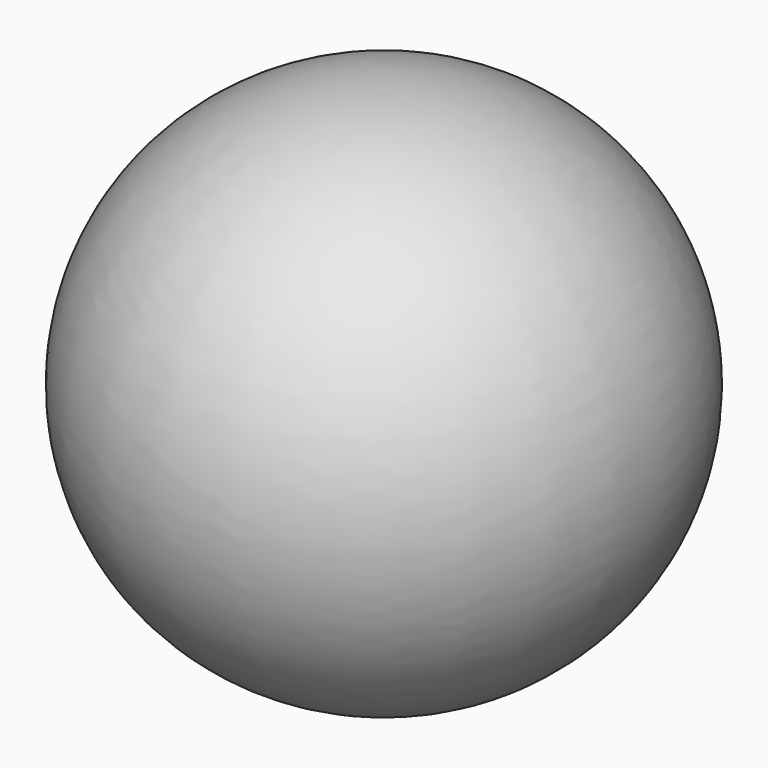
from build123d import *

# Parameters (mm, degrees)
F2_R     = 12.434737
F3_DEPTH = 25.4


with BuildPart() as f1:
    # F0 (on Front) → F1 (revolve)
    with BuildSketch(Plane.XZ):
        with BuildLine():
            ThreePointArc((0, 0), (19.442989, 18.971473), (0, 37.942946))
            Line((0, 37.942946), (0, 0))
        make_face()
    revolve(axis=Axis((0, 0, 18.971473), (0, 0, -1)))

    # F2 (on Front) → F3 (cut)
    with BuildSketch(Plane.XZ):
        with Locations((0, 18.971458)):
            Circle(F2_R)
    extrude(amount=-F3_DEPTH, mode=Mode.SUBTRACT)


solid = f1.part
